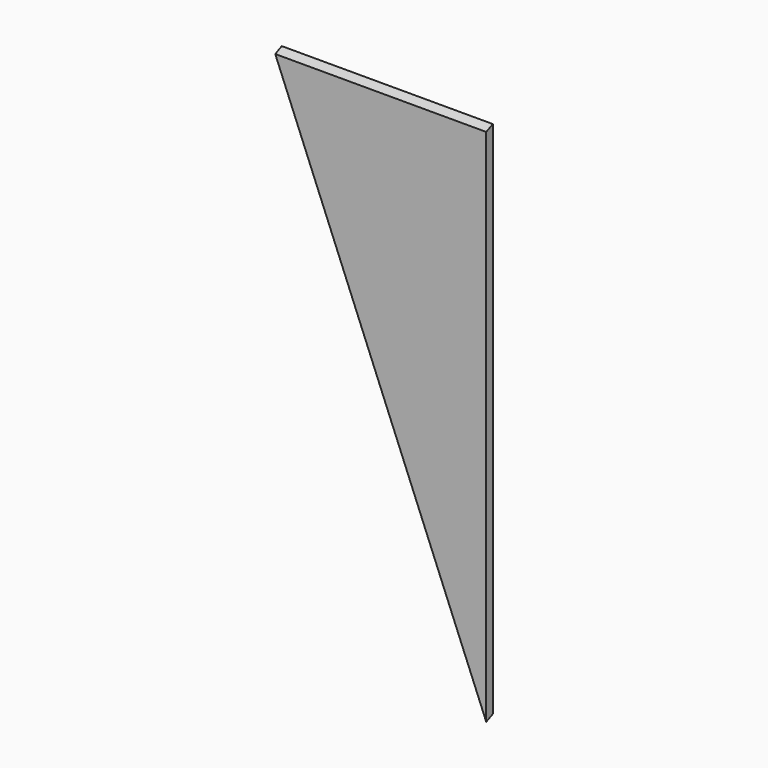
from build123d import *

# Parameters (mm, degrees)
F1_DEPTH = 6.35
F4_DEPTH = 330.201
F6_DEPTH = 877.312735


with BuildPart() as f1:
    # F0 (on Front) → F1 (new body, symmetric)
    with BuildSketch(Plane.XZ):
        Polygon((206.782042, 184.344013), (-123.417958, 184.344013), (206.782042, -628.455987), align=None)
    extrude(amount=F1_DEPTH, both=True)

    # F3 (on face) → F4 (cut, through all)
    with BuildSketch(Plane.YZ.offset(206.782042)):
        Polygon((-6.35, 178.689609), (6.35, 184.344013), (-6.35, 184.344013), align=None)
    extrude(amount=-F4_DEPTH, mode=Mode.SUBTRACT)

    # F5 (on face) → F6 (cut, through all)
    with BuildSketch(Plane(origin=(-81.764245, 0, 201.265834), x_dir=(0.926467, 0, 0.376377), z_dir=(0.376377, 0, -0.926467))):
        Polygon((-44.959792, 6.350266), (-44.959792, -6.476734), (-42.813289, -6.476734), align=None)
    extrude(amount=F6_DEPTH, mode=Mode.SUBTRACT)


solid = f1.part
